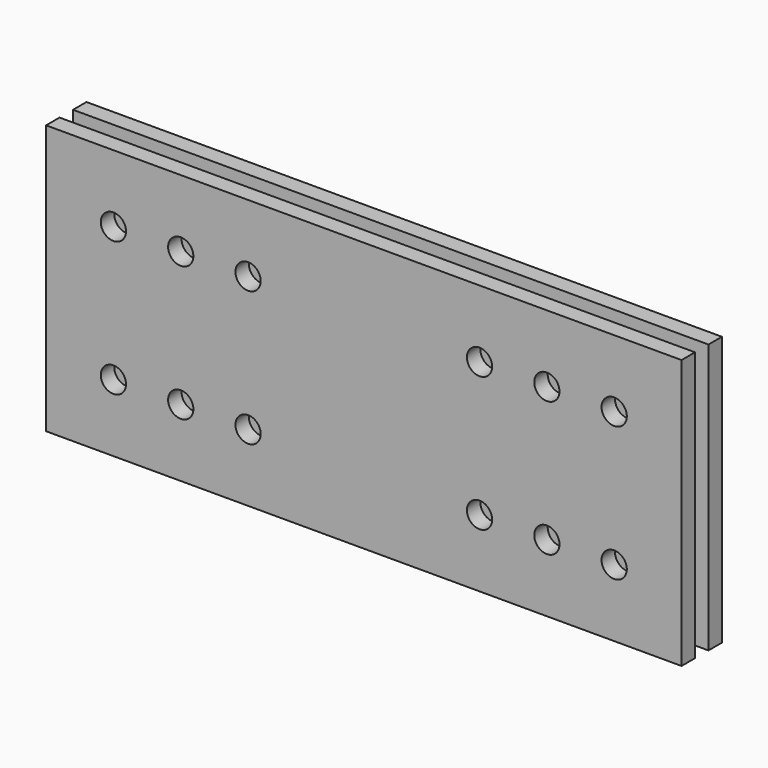
from build123d import *

# Parameters (mm, degrees)
F0_W     = 239.7125
F0_H     = 6.35
F1_DEPTH = 50.8
F2_R     = 4.7625
F3_DEPTH = 19.051


with BuildPart() as f1:
    # F0 (on Top) → F1 (new body, symmetric)
    with BuildSketch(Plane.XY):
        with Locations((8.104667, 38.060586)):
            Rectangle(F0_W, F0_H)
        with Locations((8.104667, 25.360586)):
            Rectangle(F0_W, F0_H)
    extrude(amount=F1_DEPTH, both=True)

    # F2 (on face) → F3 (cut, through all)
    with BuildSketch(Plane.XZ.offset(-22.185586)):
        with Locations((-86.351583, 25.4)):
            Circle(F2_R)
        with Locations((102.560917, 25.4)):
            Circle(F2_R)
        with Locations((-86.351583, -25.4)):
            Circle(F2_R)
        with Locations((-60.951583, 25.4)):
            Circle(F2_R)
        with Locations((-60.951583, -25.4)):
            Circle(F2_R)
        with Locations((-35.551583, 25.4)):
            Circle(F2_R)
        with Locations((-35.551583, -25.4)):
            Circle(F2_R)
        with Locations((102.560917, -25.4)):
            Circle(F2_R)
        with Locations((77.160917, 25.4)):
            Circle(F2_R)
        with Locations((77.160917, -25.4)):
            Circle(F2_R)
        with Locations((51.760917, 25.4)):
            Circle(F2_R)
        with Locations((51.760917, -25.4)):
            Circle(F2_R)
    extrude(amount=-F3_DEPTH, mode=Mode.SUBTRACT)


solid = f1.part
